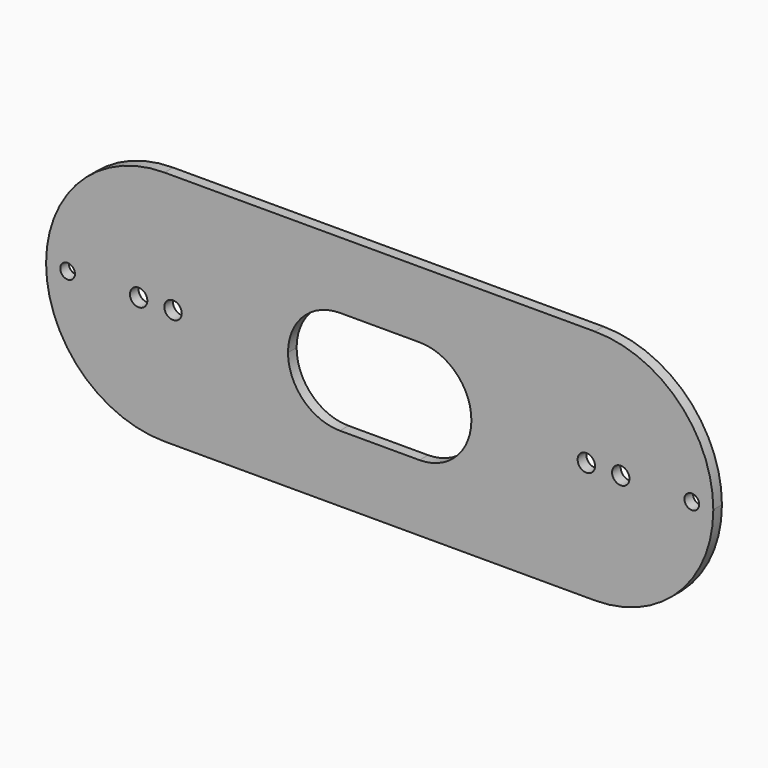
from build123d import *

# Parameters (mm, degrees)
F0_R     = 2.1717
F0_R_2   = 2.5654
F1_DEPTH = 3.175


with BuildPart() as f1:
    # F0 (on Front) → F1 (new body)
    with BuildSketch(Plane.XZ):
        with BuildLine():
            Line((63.5, 34.925), (-63.5, 34.925))
            ThreePointArc((-63.5, 34.925), (-88.195704, 24.695704), (-98.425, 0))
            ThreePointArc((-98.425, 0), (-88.195704, -24.695704), (-63.5, -34.925))
            Line((-63.5, -34.925), (63.5, -34.925))
            ThreePointArc((63.5, -34.925), (88.195704, -24.695704), (98.425, 0))
            ThreePointArc((98.425, 0), (88.195704, 24.695704), (63.5, 34.925))
        make_face()
        with Locations((-92.075, 0)):
            Circle(F0_R, mode=Mode.SUBTRACT)
        with Locations((-71.12, 0)):
            Circle(F0_R_2, mode=Mode.SUBTRACT)
        with Locations((-60.96, 0)):
            Circle(F0_R_2, mode=Mode.SUBTRACT)
        with BuildLine():
            ThreePointArc((-27.051, 0), (-22.568709, 10.821209), (-11.7475, 15.3035))
            Line((-11.7475, 15.3035), (11.7475, 15.3035))
            ThreePointArc((11.7475, 15.3035), (22.568709, 10.821209), (27.051, 0))
            ThreePointArc((27.051, 0), (22.568709, -10.821209), (11.7475, -15.3035))
            Line((11.7475, -15.3035), (-11.7475, -15.3035))
            ThreePointArc((-11.7475, -15.3035), (-22.568709, -10.821209), (-27.051, 0))
        make_face(mode=Mode.SUBTRACT)
        with Locations((60.96, 0)):
            Circle(F0_R_2, mode=Mode.SUBTRACT)
        with Locations((71.12, 0)):
            Circle(F0_R_2, mode=Mode.SUBTRACT)
        with Locations((92.075, 0)):
            Circle(F0_R, mode=Mode.SUBTRACT)
    extrude(amount=F1_DEPTH)


solid = f1.part
